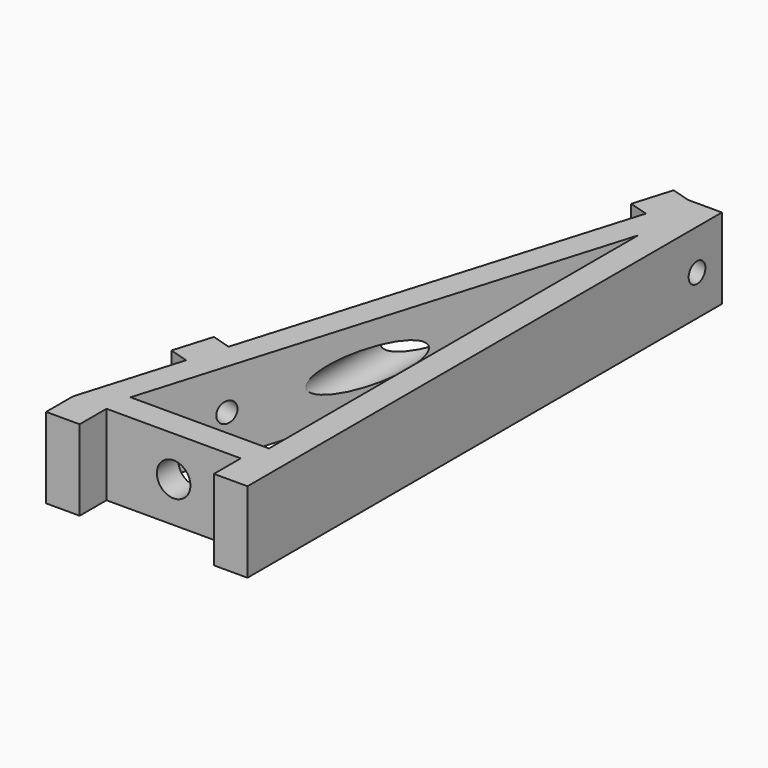
from build123d import *

# Parameters (mm, degrees)
F1_DEPTH = 12
F2_R     = 2.5
F3_DEPTH = 83.331666624
F4_W     = 6
F4_H     = 12
F4_R     = 1.5
F5_DEPTH = 3
F6_DEPTH = 6.5712102501


with BuildPart() as f1:
    # F0 (on Top) → F1 (new body)
    with BuildSketch(Plane.XY):
        Polygon((-20, -5), (-20, 0), (0, 0), (0, -5), (5, -5), (5, 83.330666624), (0, 83.330666624), (-25, 0), (-25, -5), align=None)
        Polygon((1, 4), (-19.6238279597, 4), (1, 72.743893289), align=None, mode=Mode.SUBTRACT)
    extrude(amount=F1_DEPTH)

    # F2 (on face) → F3 (cut, through all)
    with BuildSketch(Plane.XZ):
        with Locations((-10, 6)):
            Circle(F2_R)
    extrude(amount=-F3_DEPTH, mode=Mode.SUBTRACT)

    # F4 (on face) → F5 (join)
    with BuildSketch(Plane(origin=(-22.9356586075, 6.8809177751, 0), x_dir=(-0.2873563218, -0.9578237543, 0), z_dir=(-0.9578237543, 0.2873563218, 0))):
        with Locations((-76.816091954, 6)):
            Rectangle(F4_W, F4_H)
        with Locations((-76.816091954, 6)):
            Circle(F4_R, mode=Mode.SUBTRACT)
        with Locations((-11.816091954, 6)):
            Rectangle(F4_W, F4_H)
        with Locations((-11.816091954, 6)):
            Circle(F4_R, mode=Mode.SUBTRACT)
    extrude(amount=F5_DEPTH)

    # F4 (on face) → F6 (cut, through all)
    with BuildSketch(Plane(origin=(-22.9356586075, 6.8809177751, 0), x_dir=(-0.2873563218, -0.9578237543, 0), z_dir=(-0.9578237543, 0.2873563218, 0))):
        with Locations((-76.816091954, 6)):
            Circle(F4_R)
        with Locations((-11.816091954, 6)):
            Circle(F4_R)
    extrude(amount=-F6_DEPTH, mode=Mode.SUBTRACT)


solid = f1.part
